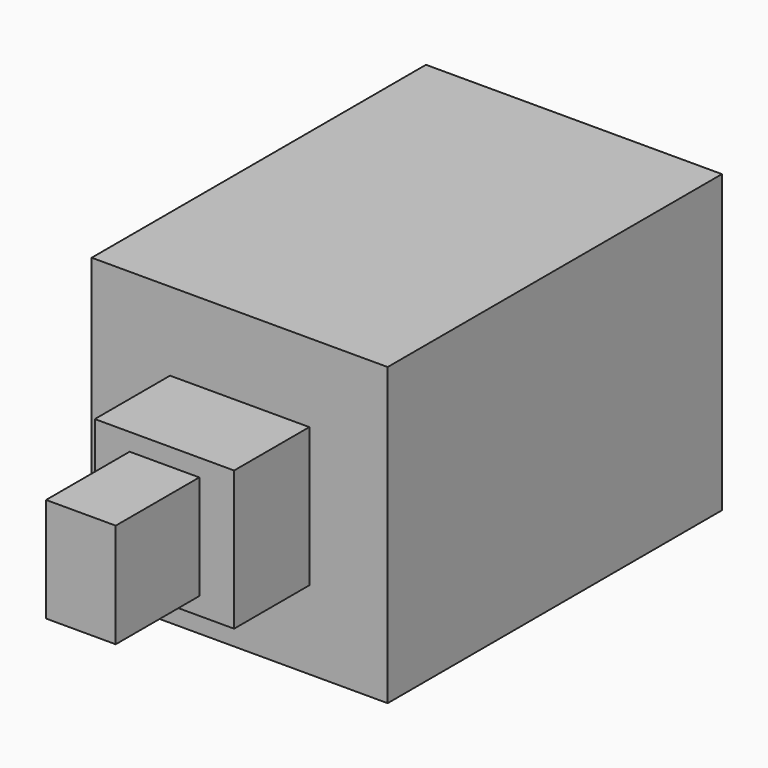
from build123d import *

# Parameters (mm, degrees)
BOX075_W                = 4
BOX075_H                = 4
BOX075_DEPTH            = 5.5
BOX076_W                = 8.5
BOX076_H                = 8.5
BOX076_DEPTH            = 3.5
BOX078_W                = 2
BOX078_H                = 3
BOX078_DEPTH            = 3
BOX074_W                = 8.5
BOX074_H                = 8.5
BOX074_DEPTH            = 8.5
BODY008_PLACEMENT_ANGLE = 90


with BuildPart() as plunger:
    # Box075 → Box075 (new body)
    with BuildSketch(Plane(origin=(-2, -2, 5.7), x_dir=(1, 0, 0), z_dir=(0, 0, 1))):
        with Locations((2, 2)):
            Rectangle(BOX075_W, BOX075_H)
    extrude(amount=BOX075_DEPTH)


with BuildPart() as pins:
    # Box076 → Box076 (new body)
    with BuildSketch(Plane(origin=(-4.25, -4.25, -3.5), x_dir=(1, 0, 0), z_dir=(0, 0, 1))):
        with Locations((4.25, 4.25)):
            Rectangle(BOX076_W, BOX076_H)
    extrude(amount=BOX076_DEPTH)


with BuildPart() as plunger001:
    # Box078 → Box078 (new body)
    with BuildSketch(Plane(origin=(-1, -1.5, 11.2), x_dir=(1, 0, 0), z_dir=(0, 0, 1))):
        with Locations((1, 1.5)):
            Rectangle(BOX078_W, BOX078_H)
    extrude(amount=BOX078_DEPTH)


with BuildPart() as switch:
    # Box074 → Box074 (new body)
    with BuildSketch(Plane(origin=(-4.25, -4.25, 0), x_dir=(1, 0, 0), z_dir=(0, 0, 1))):
        with Locations((4.25, 4.25)):
            Rectangle(BOX074_W, BOX074_H)
    extrude(amount=BOX074_DEPTH)

    # Fusion024: union plunger, pins, plunger001
    add(plunger.part)
    add(pins.part)
    add(plunger001.part)


with BuildPart() as switch_1:
    # Body008 placement: moved
    add(switch.part.moved(Location((15.5, -13, 4.4))).rotate(Axis((15.5, -13, 4.4), (1, 0, 0)), BODY008_PLACEMENT_ANGLE))


solid = switch_1.part
